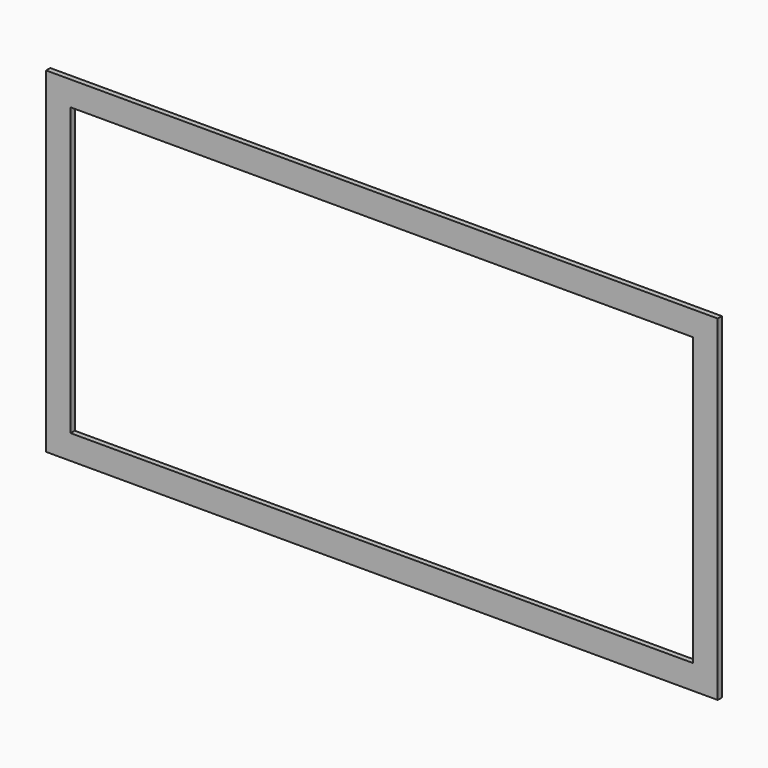
from build123d import *

# Parameters (mm, degrees)
F1_DEPTH = 19.05


with BuildPart() as f1:
    # F0 (on Front) → F1 (new body)
    with BuildSketch(Plane.XZ):
        Polygon((1130.3, 520.7), (1219.2, 609.6), (-1219.2, 609.6), (-1130.3, 520.7), align=None)
        Polygon((1219.2, -609.6), (1219.2, 609.6), (1130.3, 520.7), (1130.3, -520.7), align=None)
        Polygon((-1219.2, -609.6), (1219.2, -609.6), (1130.3, -520.7), (-1130.3, -520.7), align=None)
        Polygon((-1130.3, 520.7), (-1219.2, 609.6), (-1219.2, -609.6), (-1130.3, -520.7), align=None)
    extrude(amount=F1_DEPTH)


solid = f1.part
